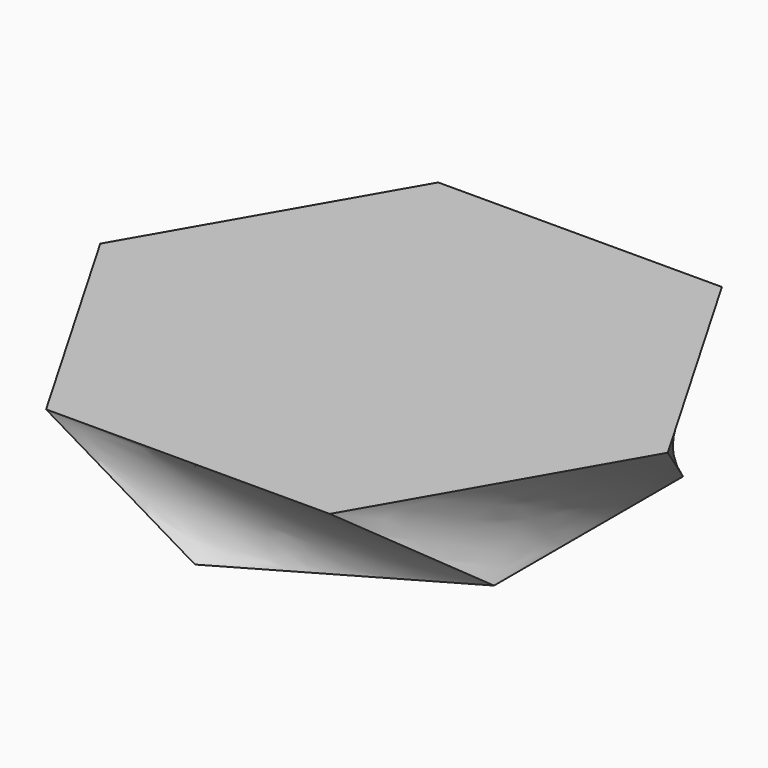
from build123d import *


with BuildPart() as f3:
    # F0 (on Top) → F3 section 0
    with BuildSketch(Plane.XY):
        Polygon((27.496307, -15.875), (27.496307, 15.875), (0, 31.75), (-27.496307, 15.875), (-27.496307, -15.875), (0, -31.75), align=None)
    # F2 (on offset) → F3 section 1
    with BuildSketch(Plane.XY.offset(12.7)):
        Polygon((19.093791, -32.970246), (38.099966, 0.050585), (19.006175, 33.020832), (-19.093791, 32.970246), (-38.099966, -0.050585), (-19.006175, -33.020832), align=None)
    loft()


solid = f3.part
